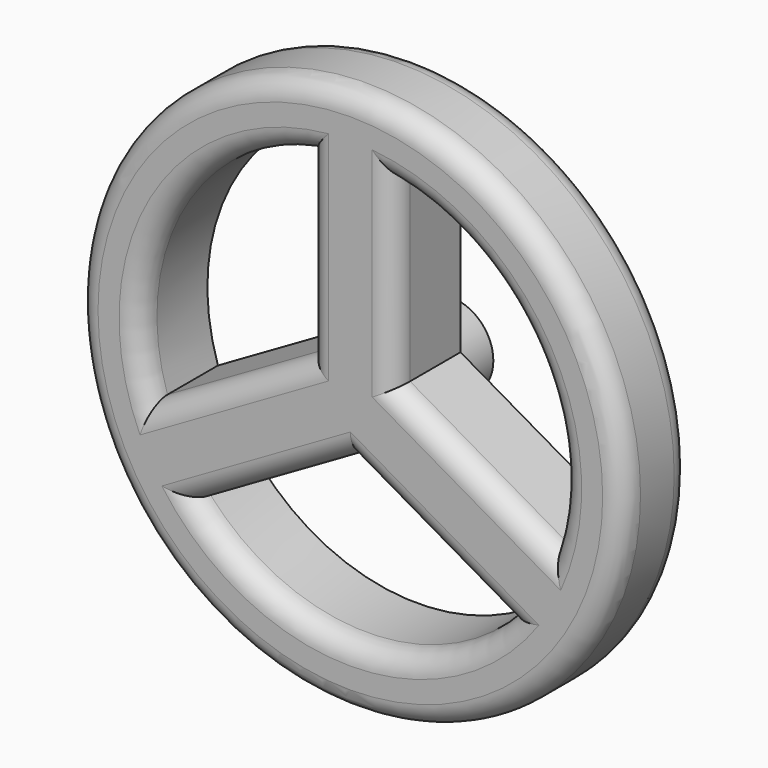
from build123d import *

# Parameters (mm, degrees)
F0_R     = 10
F1_DEPTH = 10
F3_R     = 65
F4_DEPTH = 20
F6_DEPTH = 20
F7_R     = 5


with BuildPart() as f1:
    # F0 (on Front) → F1 (new body)
    with BuildSketch(Plane.XZ):
        Circle(F0_R)
    extrude(amount=F1_DEPTH)

    # F3 (on offset) → F4 (join, through all)
    with BuildSketch(Plane.XZ.offset(30)):
        Circle(F3_R)
    extrude(amount=-F4_DEPTH)

    # F5 (on face) → F6 (cut, through all)
    with BuildSketch(Plane.XZ.offset(30)):
        with BuildLine():
            Line((-47.487018, -15.651937), (-10.188534, 5.882353))
            Line((-10.188534, 5.882353), (-10.188534, 48.950932))
            ThreePointArc((-10.188534, 48.950932), (-43.30127, 25), (-47.487018, -15.651937))
        make_face()
        with BuildLine():
            Line((10.188534, 48.950932), (10.188534, 5.882353))
            Line((10.188534, 5.882353), (47.487018, -15.651937))
            ThreePointArc((47.487018, -15.651937), (43.30127, 25), (10.188534, 48.950932))
        make_face()
        with BuildLine():
            Line((0, -11.764706), (-37.298484, -33.298996))
            ThreePointArc((-37.298484, -33.298996), (0, -50), (37.298484, -33.298996))
            Line((37.298484, -33.298996), (0, -11.764706))
        make_face()
    extrude(amount=-F6_DEPTH, mode=Mode.SUBTRACT)

    # F7
    f7_edges = [f1.edges().sort_by_distance(p)[0] for p in [
        (-65, -30, 0),
        (18.649242, -30, -22.531851),
        (-18.649242, -30, -22.531851),
        (0, -30, -50),
        (-28.837776, -30, -4.884792),
        (-10.188534, -30, 27.416643),
        (-43.30127, -30, 25),
        (10.188534, -30, 27.416643),
        (28.837776, -30, -4.884792),
        (43.30127, -30, 25),
        (65, -20, 0),
        (-65, -10, 0),
    ]]
    fillet(f7_edges, radius=F7_R)


solid = f1.part
